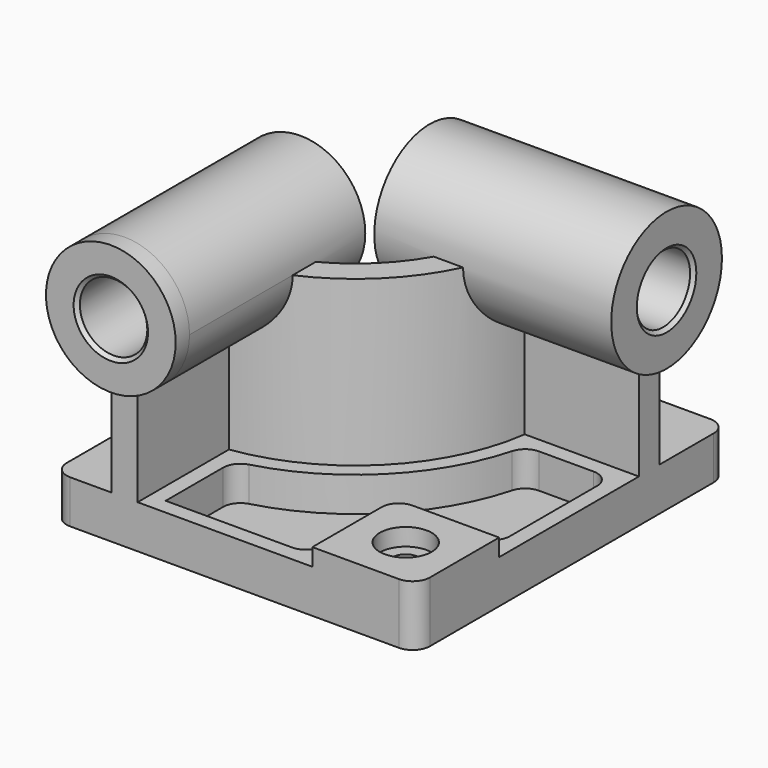
from build123d import *

# Parameters (mm, degrees)
F0_W            = 210
F0_H            = 225
F1_DEPTH        = 25
F3_DEPTH        = 95
F4_R            = 37.5
F5_DEPTH        = 10
F5_DEPTH_BACK   = 127
F6_R            = 40
F7_DEPTH        = 10
F7_DEPTH_BACK   = 127
F8_W            = 60
F8_H            = 60
F9_DEPTH        = 10
F10_R           = 10
F12_DEPTH       = 20
F14_D           = 15
F14_CBORE_D     = 30
F14_CBORE_DEPTH = 10
F15_R           = 10
F16_R           = 19.5
F17_DEPTH       = 235.001
F18_R           = 19.5
F19_DEPTH       = 220.001
F20_SIZE        = 2
F21_R           = 10


with BuildPart() as f1:
    # F0 (on Top) → F1 (new body)
    with BuildSketch(Plane.XY):
        Rectangle(F0_W, F0_H)
    extrude(amount=F1_DEPTH)

    # F2 (on face) → F3 (join)
    with BuildSketch(Plane.XY.offset(25)):
        with BuildLine():
            Line((-71, -32.5), (-71, -112.5))
            Line((-71, -112.5), (-56, -112.5))
            Line((-56, -112.5), (-56, -46.481817))
            ThreePointArc((-56, -46.481817), (7.488853, -14.988853), (38.981817, 48.5))
            Line((38.981817, 48.5), (105, 48.5))
            Line((105, 48.5), (105, 63.5))
            Line((105, 63.5), (25, 63.5))
            ThreePointArc((25, 63.5), (-3.117749, -4.382251), (-71, -32.5))
        make_face()
    extrude(amount=F3_DEPTH)

    # F4 (on face) → F5 (join, two sides)
    with BuildSketch(Plane.XZ.offset(112.5)) as f5_sk:
        with Locations((-63.5, 120)):
            Circle(F4_R)
    extrude(amount=F5_DEPTH)
    extrude(f5_sk.sketch, amount=-F5_DEPTH_BACK)

    # F6 (on face) → F7 (join, two sides)
    with BuildSketch(Plane.YZ.offset(105)) as f7_sk:
        with Locations((56, 120)):
            Circle(F6_R)
    extrude(amount=F7_DEPTH)
    extrude(f7_sk.sketch, amount=-F7_DEPTH_BACK)

    # F8 (on face) → F9 (join)
    with BuildSketch(Plane.XY.offset(25)):
        with Locations((75, -82.5)):
            Rectangle(F8_W, F8_H)
    extrude(amount=F9_DEPTH)

    # F10
    f10_edges = [f1.edges().sort_by_distance(p)[0] for p in [
        (45, -52.5, 30),
    ]]
    fillet(f10_edges, radius=F10_R)

    # F11 (on face) → F12 (cut)
    with BuildSketch(Plane.XY.offset(25)):
        with BuildLine():
            ThreePointArc((46.575508, 39.5), (13.852814, -21.352814), (-47, -54.075508))
            Line((-47, -54.075508), (-47, -103.5))
            Line((-47, -103.5), (36, -103.5))
            Line((36, -103.5), (36, -62.5))
            ThreePointArc((36, -62.5), (41.564971, -49.064971), (55, -43.5))
            Line((55, -43.5), (96, -43.5))
            Line((96, -43.5), (96, 39.5))
            Line((96, 39.5), (46.575508, 39.5))
        make_face()
    extrude(amount=-F12_DEPTH, mode=Mode.SUBTRACT)

    # F14 (through all)
    with Locations(Plane.XY.offset(35)):
        with Locations((75, -82.5)):
            CounterBoreHole(F14_D / 2, F14_CBORE_D / 2, F14_CBORE_DEPTH)

    # F15
    f15_edges = [f1.edges().sort_by_distance(p)[0] for p in [
        (-47, -54.075508, 15),
        (46.575508, 39.5, 15),
        (96, 39.5, 15),
        (36, -103.5, 15),
        (96, -43.5, 15),
    ]]
    fillet(f15_edges, radius=F15_R)

    # F16 (on face) → F17 (cut, through all)
    with BuildSketch(Plane.XZ.offset(122.5)):
        with Locations((-63.5, 120)):
            Circle(F16_R)
    extrude(amount=-F17_DEPTH, mode=Mode.SUBTRACT)

    # F18 (on face) → F19 (cut, through all)
    with BuildSketch(Plane.YZ.offset(115)):
        with Locations((56, 120)):
            Circle(F18_R)
    extrude(amount=-F19_DEPTH, mode=Mode.SUBTRACT)

    # F20
    f20_edges = [f1.edges().sort_by_distance(p)[0] for p in [
        (-83, -122.5, 120),
        (115, 36.5, 120),
        (-83, 14.5, 120),
        (-22, 36.5, 120),
    ]]
    chamfer(f20_edges, length=F20_SIZE)

    # F21
    f21_edges = [f1.edges().sort_by_distance(p)[0] for p in [
        (105, -112.5, 17.5),
        (-105, -112.5, 12.5),
        (105, 112.5, 12.5),
        (-105, 112.5, 12.5),
    ]]
    fillet(f21_edges, radius=F21_R)


solid = f1.part
